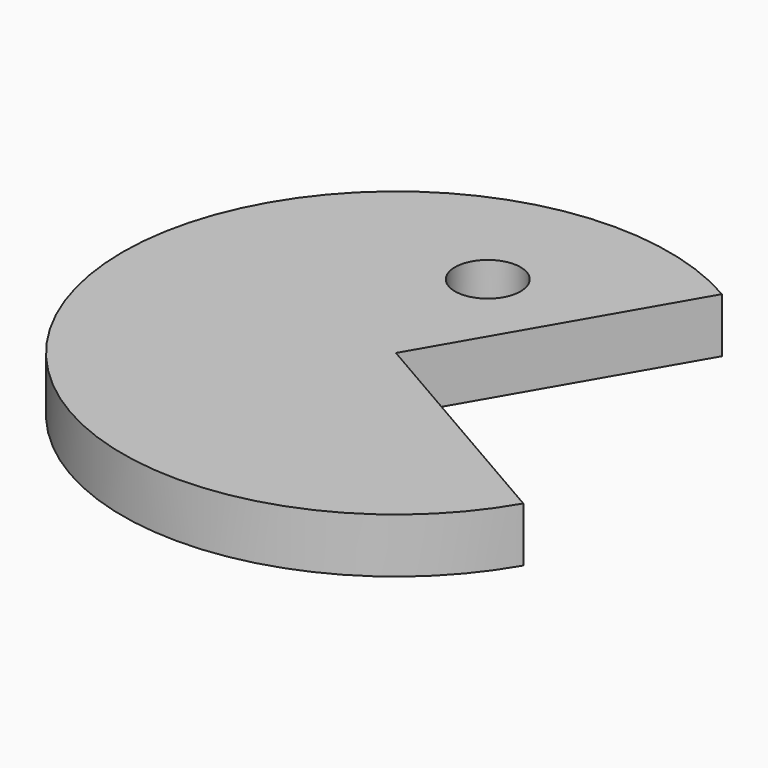
from build123d import *

# Parameters (mm, degrees)
CYLINDER001_R            = 3
CYLINDER001_DEPTH        = 5
CYLINDER_W               = 25
CYLINDER_H               = 5
CYLINDER_ANGLE           = 270
CYLINDER_PLACEMENT_ANGLE = 60


with BuildPart() as cilindro001:
    # Cylinder001 → Cylinder001 (new body)
    with BuildSketch(Plane(origin=(-4, 13, 0), x_dir=(1, 0, 0), z_dir=(0, 0, 1))):
        Circle(CYLINDER001_R)
    extrude(amount=CYLINDER001_DEPTH)


with BuildPart() as obj1:
    # Cylinder → Cylinder (revolve)
    with BuildSketch(Plane.XZ):
        with Locations((12.5, 2.5)):
            Rectangle(CYLINDER_W, CYLINDER_H)
    revolve(axis=Axis((0, 0, 0), (0, 0, 1)), revolution_arc=CYLINDER_ANGLE)


with BuildPart() as obj1_1:
    # Cylinder placement: moved
    add(obj1.part.moved(Location((-2, 0, 0))).rotate(Axis((-2, 0, 0), (0, 0, 1)), CYLINDER_PLACEMENT_ANGLE))

    # Cut: cut Cilindro001
    add(cilindro001.part, mode=Mode.SUBTRACT)


solid = obj1_1.part
